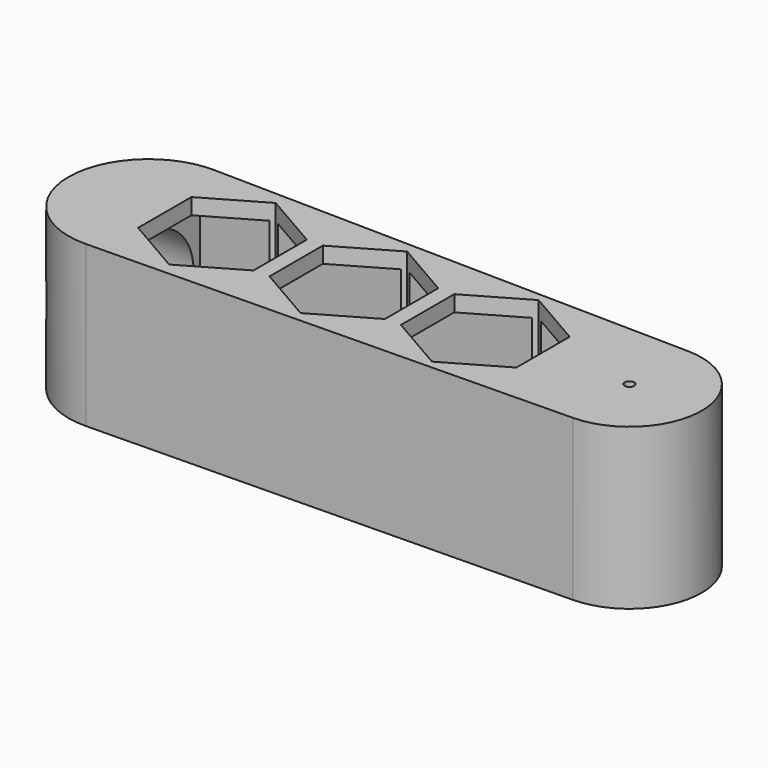
from build123d import *

# Parameters (mm, degrees)
F0_R     = 1.5
F2_DEPTH = 50
F3_DEPTH = 60
F4_W     = 40
F4_H     = 40
F5_DEPTH = 140.1
F6_R     = 17.5
F7_DEPTH = 25.001


with BuildPart() as f2:
    # F0 (on Top) → F2 (new body)
    with BuildSketch(Plane.XY):
        with BuildLine():
            Line((150.375, 22.496875), (0.416667, 24.996528))
            ThreePointArc((0.416667, 24.996528), (-25, 0), (0.416667, -24.996528))
            Line((0.416667, -24.996528), (150.375, -22.496875))
            ThreePointArc((150.375, -22.496875), (172.5, 0), (150.375, 22.496875))
        make_face()
        with Locations((150, 0)):
            Circle(F0_R, mode=Mode.SUBTRACT)
    extrude(amount=F2_DEPTH)

    # F1 (on face) → F3 (cut)
    with BuildSketch(Plane.XY):
        Polygon((5, 10.392305), (5, -10.392305), (23, -20.784609), (41, -10.392305), (41, 10.392305), (23, 20.78461), align=None)
        Polygon((82, -10.392305), (82, 10.392305), (64, 20.78461), (46, 10.392305), (46, -10.392305), (64, -20.784609), align=None)
        Polygon((87, 10.392305), (87, -10.392305), (105, -20.784609), (123, -10.392305), (123, 10.392305), (105, 20.78461), align=None)
    extrude(amount=F3_DEPTH, mode=Mode.SUBTRACT)

    # F4 (on Right) → F5 (cut)
    with BuildSketch(Plane.YZ):
        with Locations((0, 25)):
            Rectangle(F4_W, F4_H)
    extrude(amount=F5_DEPTH, mode=Mode.SUBTRACT)

    # F6 (on Right) → F7 (cut, through all)
    with BuildSketch(Plane.YZ):
        with Locations((0, 25)):
            Circle(F6_R)
    extrude(amount=-F7_DEPTH, mode=Mode.SUBTRACT)


solid = f2.part
